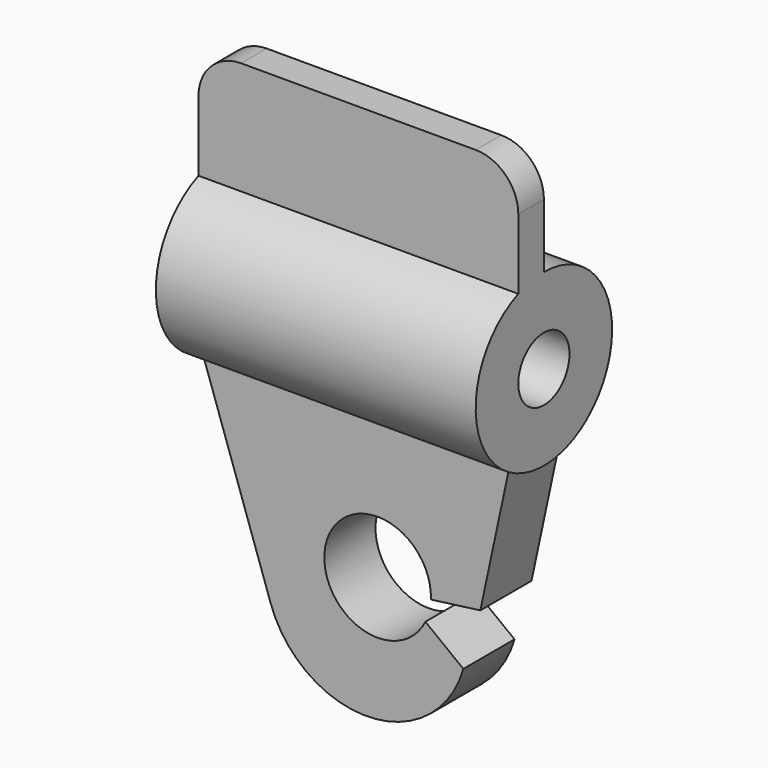
from build123d import *

# Parameters (mm, degrees)
F0_R     = 4
F0_R_2   = 1.5
F1_DEPTH = 15
F3_DEPTH = 1.5
F5_DEPTH = 1.5


with BuildPart() as f1:
    # F0 (on Right) → F1 (new body)
    with BuildSketch(Plane.YZ):
        Circle(F0_R)
        Circle(F0_R_2, mode=Mode.SUBTRACT)
    extrude(amount=F1_DEPTH)

    # F2 (on Front) → F3 (join, symmetric)
    with BuildSketch(Plane.XZ):
        with BuildLine():
            Line((14.70626425, -3), (0, -3))
            Line((0, -3), (3.3842294856, -12.8433583514))
            ThreePointArc((3.3842294856, -12.8433583514), (7.9879322575, -16.0413339461), (12.4233677026, -12.6137926218))
            Line((12.4233677026, -12.6137926218), (10.6424884871, -11.2477112561))
            ThreePointArc((10.6424884871, -11.2477112561), (5.979534847, -9.5192649707), (10.8988873674, -10.2477112561))
            Line((10.8988873674, -10.2477112561), (13.2192947992, -9.9418605826))
            Line((13.2192947992, -9.9418605826), (14.70626425, -3))
        make_face()
    extrude(amount=F3_DEPTH, both=True)

    # F4 (on Front) → F5 (join)
    with BuildSketch(Plane.XZ):
        with BuildLine():
            Line((0, 7), (0, 3))
            Line((0, 3), (15, 3))
            Line((15, 3), (15, 7))
            ThreePointArc((15, 7), (14.4142135624, 8.4142135624), (13, 9))
            Line((13, 9), (2, 9))
            ThreePointArc((2, 9), (0.5857864376, 8.4142135624), (0, 7))
        make_face()
    extrude(amount=F5_DEPTH)


solid = f1.part
